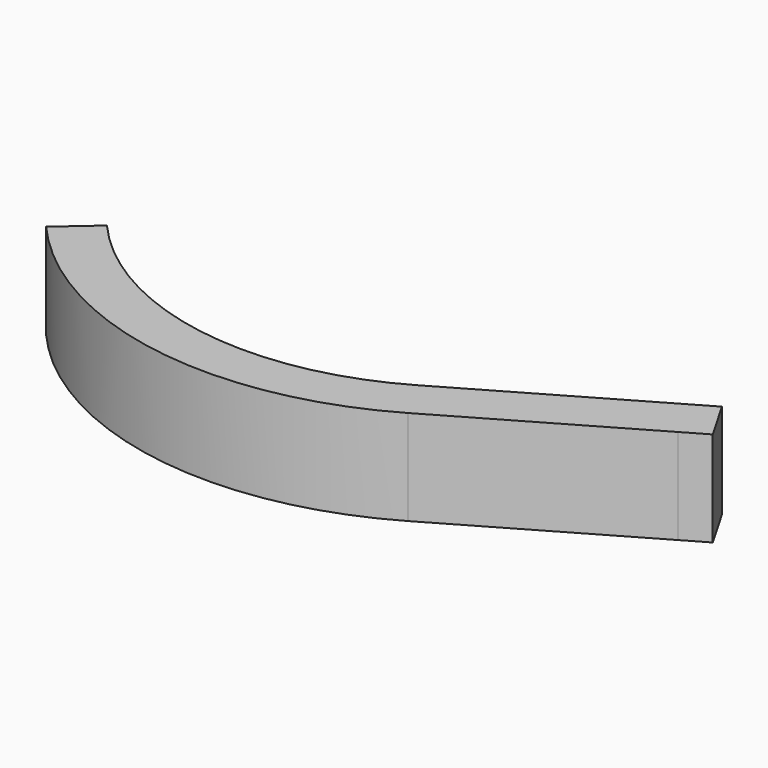
from build123d import *

# Parameters (mm, degrees)
F1_DEPTH = 25.4


with BuildPart() as f1:
    # F0 (on Top) → F1 (new body)
    with BuildSketch(Plane.XY):
        with BuildLine():
            Line((376.802053, 154.521519), (426.124698, 182.997961))
            Line((426.124698, 182.997961), (432.474698, 186.664135))
            Line((432.474698, 186.664135), (426.124698, 197.662657))
            Line((426.124698, 197.662657), (370.452053, 165.520041))
            ThreePointArc((370.452053, 165.520041), (319.833994, 156.346437), (274.921166, 181.429912))
            Line((274.921166, 181.429912), (265.349351, 173.083034))
            ThreePointArc((265.349351, 173.083034), (317.747651, 143.81898), (376.802053, 154.521519))
        make_face()
    extrude(amount=F1_DEPTH)


solid = f1.part
